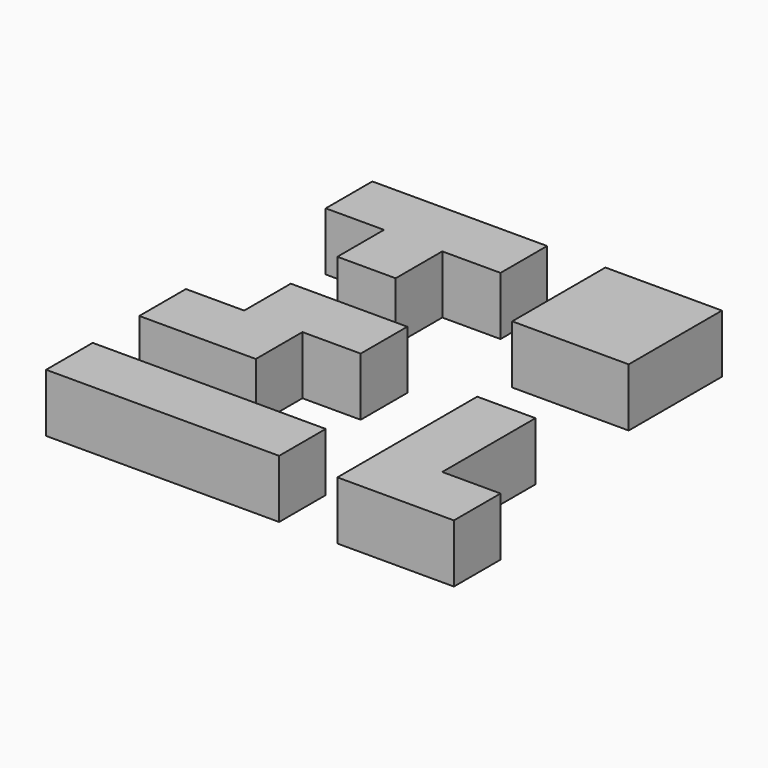
from build123d import *

# Parameters (mm, degrees)
BOX001_W     = 10
BOX001_H     = 10
BOX001_DEPTH = 10
BOX002_W     = 10
BOX002_H     = 10
BOX002_DEPTH = 10
BOX003_W     = 10
BOX003_H     = 10
BOX003_DEPTH = 10
BOX_W        = 10
BOX_H        = 10
BOX_DEPTH    = 10
BOX005_W     = 10
BOX005_H     = 10
BOX005_DEPTH = 10
BOX006_W     = 10
BOX006_H     = 10
BOX006_DEPTH = 10
BOX007_W     = 10
BOX007_H     = 10
BOX007_DEPTH = 10
BOX004_W     = 10
BOX004_H     = 10
BOX004_DEPTH = 10
BOX009_W     = 10
BOX009_H     = 10
BOX009_DEPTH = 10
BOX010_W     = 10
BOX010_H     = 10
BOX010_DEPTH = 10
BOX011_W     = 10
BOX011_H     = 10
BOX011_DEPTH = 10
BOX008_W     = 10
BOX008_H     = 10
BOX008_DEPTH = 10
BOX013_W     = 10
BOX013_H     = 10
BOX013_DEPTH = 10
BOX014_W     = 10
BOX014_H     = 10
BOX014_DEPTH = 10
BOX015_W     = 10
BOX015_H     = 10
BOX015_DEPTH = 10
BOX012_W     = 10
BOX012_H     = 10
BOX012_DEPTH = 10
BOX017_W     = 10
BOX017_H     = 10
BOX017_DEPTH = 10
BOX018_W     = 10
BOX018_H     = 10
BOX018_DEPTH = 10
BOX019_W     = 10
BOX019_H     = 10
BOX019_DEPTH = 10
BOX016_W     = 10
BOX016_H     = 10
BOX016_DEPTH = 10


with BuildPart() as cub001:
    # Box001 → Box001 (new body)
    with BuildSketch(Plane(origin=(10, 0, 0), x_dir=(1, 0, 0), z_dir=(0, 0, 1))):
        with Locations((5, 5)):
            Rectangle(BOX001_W, BOX001_H)
    extrude(amount=BOX001_DEPTH)


with BuildPart() as cub002:
    # Box002 → Box002 (new body)
    with BuildSketch(Plane(origin=(20, 0, 0), x_dir=(1, 0, 0), z_dir=(0, 0, 1))):
        with Locations((5, 5)):
            Rectangle(BOX002_W, BOX002_H)
    extrude(amount=BOX002_DEPTH)


with BuildPart() as cub003:
    # Box003 → Box003 (new body)
    with BuildSketch(Plane(origin=(30, 0, 0), x_dir=(1, 0, 0), z_dir=(0, 0, 1))):
        with Locations((5, 5)):
            Rectangle(BOX003_W, BOX003_H)
    extrude(amount=BOX003_DEPTH)


with BuildPart() as obj1:
    # Box → Box (new body)
    with BuildSketch(Plane.XY):
        with Locations((5, 5)):
            Rectangle(BOX_W, BOX_H)
    extrude(amount=BOX_DEPTH)

    # Fusion: union Cub001, Cub002, Cub003
    add(cub001.part)
    add(cub002.part)
    add(cub003.part)


with BuildPart() as cub005:
    # Box005 → Box005 (new body)
    with BuildSketch(Plane(origin=(10, 20, 0), x_dir=(1, 0, 0), z_dir=(0, 0, 1))):
        with Locations((5, 5)):
            Rectangle(BOX005_W, BOX005_H)
    extrude(amount=BOX005_DEPTH)


with BuildPart() as cub006:
    # Box006 → Box006 (new body)
    with BuildSketch(Plane(origin=(10, 30, 0), x_dir=(1, 0, 0), z_dir=(0, 0, 1))):
        with Locations((5, 5)):
            Rectangle(BOX006_W, BOX006_H)
    extrude(amount=BOX006_DEPTH)


with BuildPart() as cub007:
    # Box007 → Box007 (new body)
    with BuildSketch(Plane(origin=(20, 30, 0), x_dir=(1, 0, 0), z_dir=(0, 0, 1))):
        with Locations((5, 5)):
            Rectangle(BOX007_W, BOX007_H)
    extrude(amount=BOX007_DEPTH)


with BuildPart() as obj2:
    # Box004 → Box004 (new body)
    with BuildSketch(Plane(origin=(0, 20, 0), x_dir=(1, 0, 0), z_dir=(0, 0, 1))):
        with Locations((5, 5)):
            Rectangle(BOX004_W, BOX004_H)
    extrude(amount=BOX004_DEPTH)

    # Fusion001: union Cub005, Cub006, Cub007
    add(cub005.part)
    add(cub006.part)
    add(cub007.part)


with BuildPart() as cub009:
    # Box009 → Box009 (new body)
    with BuildSketch(Plane(origin=(10, 60, 0), x_dir=(1, 0, 0), z_dir=(0, 0, 1))):
        with Locations((5, 5)):
            Rectangle(BOX009_W, BOX009_H)
    extrude(amount=BOX009_DEPTH)


with BuildPart() as cub010:
    # Box010 → Box010 (new body)
    with BuildSketch(Plane(origin=(20, 60, 0), x_dir=(1, 0, 0), z_dir=(0, 0, 1))):
        with Locations((5, 5)):
            Rectangle(BOX010_W, BOX010_H)
    extrude(amount=BOX010_DEPTH)


with BuildPart() as cub011:
    # Box011 → Box011 (new body)
    with BuildSketch(Plane(origin=(10, 50, 0), x_dir=(1, 0, 0), z_dir=(0, 0, 1))):
        with Locations((5, 5)):
            Rectangle(BOX011_W, BOX011_H)
    extrude(amount=BOX011_DEPTH)


with BuildPart() as obj3:
    # Box008 → Box008 (new body)
    with BuildSketch(Plane(origin=(0, 60, 0), x_dir=(1, 0, 0), z_dir=(0, 0, 1))):
        with Locations((5, 5)):
            Rectangle(BOX008_W, BOX008_H)
    extrude(amount=BOX008_DEPTH)

    # Fusion002: union Cub009, Cub010, Cub011
    add(cub009.part)
    add(cub010.part)
    add(cub011.part)


with BuildPart() as cub013:
    # Box013 → Box013 (new body)
    with BuildSketch(Plane(origin=(60, 0, 0), x_dir=(1, 0, 0), z_dir=(0, 0, 1))):
        with Locations((5, 5)):
            Rectangle(BOX013_W, BOX013_H)
    extrude(amount=BOX013_DEPTH)


with BuildPart() as cub014:
    # Box014 → Box014 (new body)
    with BuildSketch(Plane(origin=(50, 10, 0), x_dir=(1, 0, 0), z_dir=(0, 0, 1))):
        with Locations((5, 5)):
            Rectangle(BOX014_W, BOX014_H)
    extrude(amount=BOX014_DEPTH)


with BuildPart() as cub015:
    # Box015 → Box015 (new body)
    with BuildSketch(Plane(origin=(50, 20, 0), x_dir=(1, 0, 0), z_dir=(0, 0, 1))):
        with Locations((5, 5)):
            Rectangle(BOX015_W, BOX015_H)
    extrude(amount=BOX015_DEPTH)


with BuildPart() as obj4:
    # Box012 → Box012 (new body)
    with BuildSketch(Plane(origin=(50, 0, 0), x_dir=(1, 0, 0), z_dir=(0, 0, 1))):
        with Locations((5, 5)):
            Rectangle(BOX012_W, BOX012_H)
    extrude(amount=BOX012_DEPTH)

    # Fusion003: union Cub013, Cub014, Cub015
    add(cub013.part)
    add(cub014.part)
    add(cub015.part)


with BuildPart() as cub017:
    # Box017 → Box017 (new body)
    with BuildSketch(Plane(origin=(50, 60, 0), x_dir=(1, 0, 0), z_dir=(0, 0, 1))):
        with Locations((5, 5)):
            Rectangle(BOX017_W, BOX017_H)
    extrude(amount=BOX017_DEPTH)


with BuildPart() as cub018:
    # Box018 → Box018 (new body)
    with BuildSketch(Plane(origin=(40, 50, 0), x_dir=(1, 0, 0), z_dir=(0, 0, 1))):
        with Locations((5, 5)):
            Rectangle(BOX018_W, BOX018_H)
    extrude(amount=BOX018_DEPTH)


with BuildPart() as cub019:
    # Box019 → Box019 (new body)
    with BuildSketch(Plane(origin=(50, 50, 0), x_dir=(1, 0, 0), z_dir=(0, 0, 1))):
        with Locations((5, 5)):
            Rectangle(BOX019_W, BOX019_H)
    extrude(amount=BOX019_DEPTH)


with BuildPart() as obj5:
    # Box016 → Box016 (new body)
    with BuildSketch(Plane(origin=(40, 60, 0), x_dir=(1, 0, 0), z_dir=(0, 0, 1))):
        with Locations((5, 5)):
            Rectangle(BOX016_W, BOX016_H)
    extrude(amount=BOX016_DEPTH)

    # Fusion004: union Cub017, Cub018, Cub019
    add(cub017.part)
    add(cub018.part)
    add(cub019.part)


solid = Compound([obj1.part, obj2.part, obj3.part, obj4.part, obj5.part])
